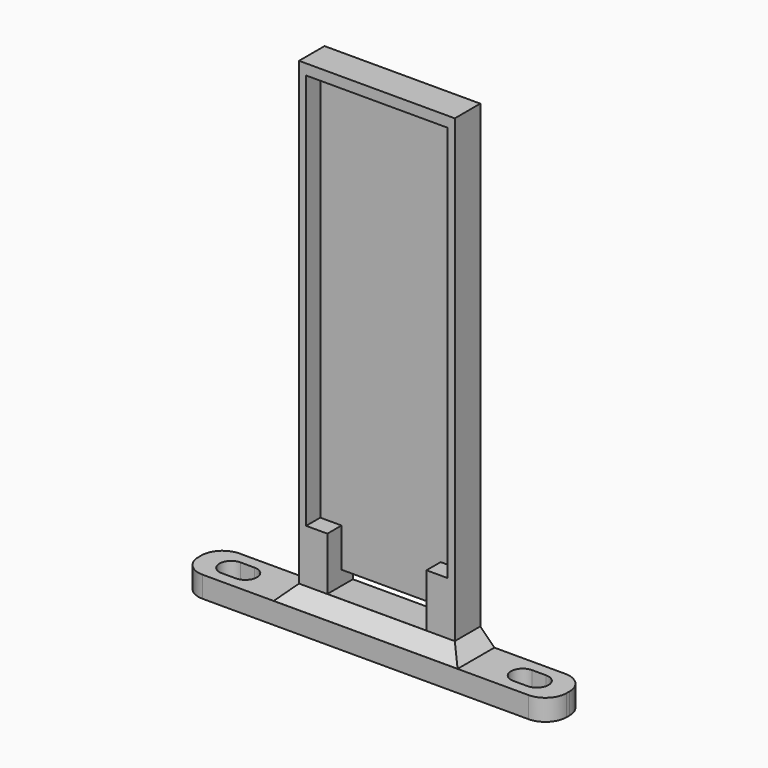
from build123d import *

# Parameters (mm, degrees)
SKETCH_W        = 14
SKETCH_H        = 2
PAD_DEPTH       = 3.25
SKETCH001_W     = 22
SKETCH001_H     = 70
POCKET_DEPTH    = 2
POCKET001_DEPTH = 2.5
POCKET002_DEPTH = 3.001
CHAMFER_SIZE    = 1.99
CHAMFER001_SIZE = 1.99
FILLET_R        = 2.99


with BuildPart() as part:
    # Sketch → Pad (new body, symmetric)
    with BuildSketch(Plane.XZ):
        Polygon((-26, 0), (-26, 3), (-11, 3), (-11, 70), (11, 70), (11, 3), (26, 3), (26, 0), align=None)
        with Locations((0, 6)):
            Rectangle(SKETCH_W, SKETCH_H, mode=Mode.SUBTRACT)
    extrude(amount=PAD_DEPTH, both=True)

    # Sketch001 (on Face14 of Pad) → Pocket (cut)
    with BuildSketch(Plane.XZ.offset(3.25)):
        with Locations((0, 38)):
            Rectangle(SKETCH001_W, SKETCH001_H)
    extrude(amount=-POCKET_DEPTH, mode=Mode.SUBTRACT)

    # Sketch002 (on Face16 of Pocket) → Pocket001 (cut)
    with BuildSketch(Plane.XZ.offset(1.25)):
        Polygon((-10, 68.5), (10, 68.5), (10, 12.5), (7, 12.5), (7, 7), (-7, 7), (-7, 12.5), (-10, 12.5), align=None)
    extrude(amount=-POCKET001_DEPTH, mode=Mode.SUBTRACT)

    # Sketch003 (on Face3 of Pocket001) → Pocket002 (cut, through all)
    with BuildSketch(Plane(origin=(0, 0, 3), x_dir=(-1, 0, 0), z_dir=(0, 0, 1))):
        with BuildLine():
            ThreePointArc((-19.59, -1.65), (-17.94, 0), (-19.59, 1.65))
            Line((-19.59, 1.65), (-21.59, 1.65))
            ThreePointArc((-21.59, 1.65), (-23.24, 0), (-21.59, -1.65))
            Line((-19.59, -1.65), (-21.59, -1.65))
        make_face()
        with BuildLine():
            ThreePointArc((19.59, 1.65), (17.94, 0), (19.59, -1.65))
            Line((19.59, -1.65), (21.59, -1.65))
            ThreePointArc((21.59, -1.65), (23.24, 0), (21.59, 1.65))
            Line((19.59, 1.65), (21.59, 1.65))
        make_face()
    extrude(amount=-POCKET002_DEPTH, mode=Mode.SUBTRACT)

    # Chamfer
    chamfer_edges = [part.edges().sort_by_distance(p)[0] for p in [
        (0, -1.25, 3),
    ]]
    chamfer(chamfer_edges, length=CHAMFER_SIZE)

    # Chamfer001
    chamfer001_edges = [part.edges().sort_by_distance(p)[0] for p in [
        (-11, 1, 3),
        (11, 1, 3),
    ]]
    chamfer(chamfer001_edges, length=CHAMFER001_SIZE)

    # Fillet
    fillet_edges = [part.edges().sort_by_distance(p)[0] for p in [
        (-26, 3.25, 1.5),
        (-26, -3.25, 1.5),
        (26, -3.25, 1.5),
        (26, 3.25, 1.5),
    ]]
    fillet(fillet_edges, radius=FILLET_R)


solid = part.part
